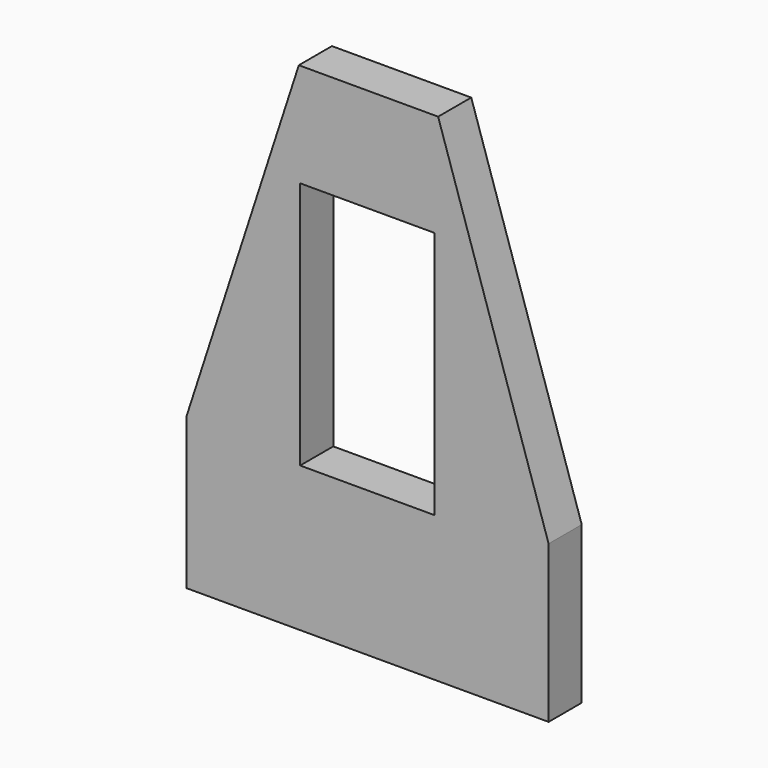
from build123d import *

# Parameters (mm, degrees)
BOX018_W               = 16
BOX018_H               = 4
BOX018_DEPTH           = 43
BOX018_PLACEMENT_ANGLE = 18
BOX017_W               = 16
BOX017_H               = 4
BOX017_DEPTH           = 43
BOX017_PLACEMENT_ANGLE = 18
BOX014_W               = 11
BOX014_H               = 4
BOX014_DEPTH           = 34
BOX015_W               = 11
BOX015_H               = 4
BOX015_DEPTH           = 34
BOX016_W               = 13
BOX016_H               = 4
BOX016_DEPTH           = 10
BOX013_W               = 35
BOX013_H               = 4
BOX013_DEPTH           = 14


with BuildPart() as obj1:
    # Box018 → Box018 (new body)
    with BuildSketch(Plane.XY):
        with Locations((8, 2)):
            Rectangle(BOX018_W, BOX018_H)
    extrude(amount=BOX018_DEPTH)


with BuildPart() as obj1_1:
    # Box018 placement: moved
    add(obj1.part.moved(Location((39, 0, 9))).rotate(Axis((39, 0, 9), (0, -1, 0)), BOX018_PLACEMENT_ANGLE))


with BuildPart() as fusion010:
    # Box017 → Box017 (new body)
    with BuildSketch(Plane.XY):
        with Locations((8, 2)):
            Rectangle(BOX017_W, BOX017_H)
    extrude(amount=BOX017_DEPTH)


with BuildPart() as fusion010_1:
    # Box017 placement: moved
    add(fusion010.part.moved(Location((-15, 0, 14))).rotate(Axis((-15, 0, 14), (0, 1, 0)), BOX017_PLACEMENT_ANGLE))

    # Fusion010: union obj1
    add(obj1_1.part)


with BuildPart() as obj2:
    # Box014 → Box014 (new body)
    with BuildSketch(Plane(origin=(2, 0, 14), x_dir=(1, 0, 0), z_dir=(0, 0, 1))):
        with Locations((5.5, 2)):
            Rectangle(BOX014_W, BOX014_H)
    extrude(amount=BOX014_DEPTH)


with BuildPart() as obj3:
    # Box015 → Box015 (new body)
    with BuildSketch(Plane(origin=(26, 0, 14), x_dir=(1, 0, 0), z_dir=(0, 0, 1))):
        with Locations((5.5, 2)):
            Rectangle(BOX015_W, BOX015_H)
    extrude(amount=BOX015_DEPTH)


with BuildPart() as obj4:
    # Box016 → Box016 (new body)
    with BuildSketch(Plane(origin=(13, 0, 38), x_dir=(1, 0, 0), z_dir=(0, 0, 1))):
        with Locations((6.5, 2)):
            Rectangle(BOX016_W, BOX016_H)
    extrude(amount=BOX016_DEPTH)


with BuildPart() as cut004:
    # Box013 → Box013 (new body)
    with BuildSketch(Plane(origin=(2, 0, 0), x_dir=(1, 0, 0), z_dir=(0, 0, 1))):
        with Locations((17.5, 2)):
            Rectangle(BOX013_W, BOX013_H)
    extrude(amount=BOX013_DEPTH)

    # Fusion009: union obj2, obj3, obj4
    add(obj2.part)
    add(obj3.part)
    add(obj4.part)

    # Cut004: cut Fusion010
    add(fusion010_1.part, mode=Mode.SUBTRACT)


with BuildPart() as cut004_1:
    # Cut004 placement: moved
    add(cut004.part.moved(Location((21, 23, -7))))


solid = cut004_1.part
